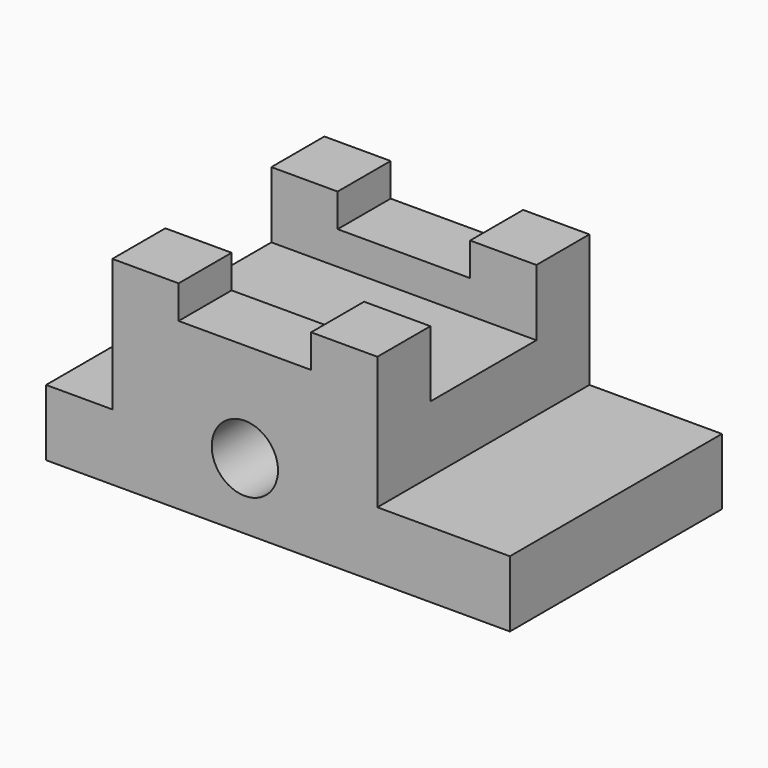
from build123d import *

# Parameters (mm, degrees)
F0_W      = 88.9
F0_H      = 38.1
F1_DEPTH  = 50.8
F2_W      = 12.7
F2_H      = 25.4
F3_DEPTH  = 50.8
F2_W_2    = 25.4
F2_H_2    = 6.35
F4_DEPTH  = 50.8
F2_R      = 6.35
F5_DEPTH  = 50.8
F5_FACE_R = 6.35
F6_DEPTH  = 50.8
F7_DEPTH  = 50.8
F8_DEPTH  = 50.8
F9_W      = 25.4
F9_H      = 12.7
F10_DEPTH = 50.8


with BuildPart() as f1:
    # F0 (on Front) → F1 (new body)
    with BuildSketch(Plane.XZ):
        Rectangle(F0_W, F0_H)
    extrude(amount=F1_DEPTH)

    # F2 (on face) → F3 (cut)
    with BuildSketch(Plane.XZ.offset(50.8)):
        with Locations((-38.1, 6.35)):
            Rectangle(F2_W, F2_H)
    extrude(amount=-F3_DEPTH, mode=Mode.SUBTRACT)

    # F2 (on face) → F4 (cut)
    with BuildSketch(Plane.XZ.offset(50.8)):
        with Locations((-6.35, 15.875)):
            Rectangle(F2_W_2, F2_H_2)
    extrude(amount=-F4_DEPTH, mode=Mode.SUBTRACT)

    # F2 (on face) → F5 (join)
    with BuildSketch(Plane.XZ.offset(50.8)):
        with Locations((-6.35, -6.35)):
            Circle(F2_R)
    extrude(amount=F5_DEPTH)

    # F5_face (on face) → F6 (cut)
    with BuildSketch(Plane(origin=(-6.35, -101.6, -6.35), x_dir=(1, 0, 0), z_dir=(0, -1, 0))):
        Circle(F5_FACE_R)
    extrude(amount=-F6_DEPTH, mode=Mode.SUBTRACT)

    # F2 (on face) → F7 (cut)
    with BuildSketch(Plane.XZ.offset(50.8)):
        with Locations((-6.35, -6.35)):
            Circle(F2_R)
    extrude(amount=-F7_DEPTH, mode=Mode.SUBTRACT)

    # F2 (on face) → F8 (cut)
    with BuildSketch(Plane.XZ.offset(50.8)):
        with Locations((31.75, 6.35)):
            Rectangle(F2_W_2, F2_H)
    extrude(amount=-F8_DEPTH, mode=Mode.SUBTRACT)

    # F9 (on face) → F10 (cut)
    with BuildSketch(Plane.YZ.offset(19.05)):
        with Locations((-25.4, 12.7)):
            Rectangle(F9_W, F9_H)
    extrude(amount=-F10_DEPTH, mode=Mode.SUBTRACT)


solid = f1.part
